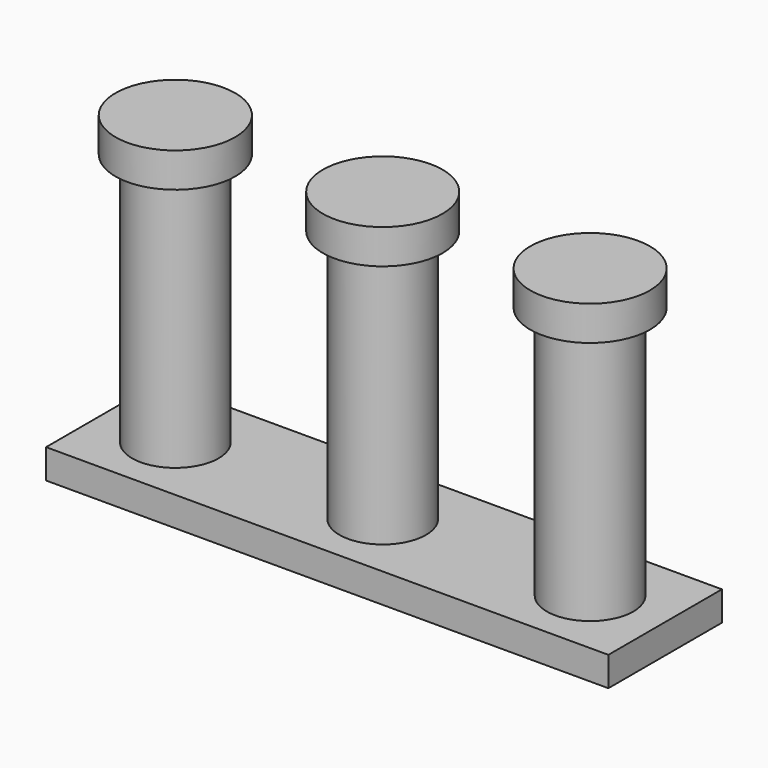
from build123d import *

# Parameters (mm, degrees)
F0_R      = 12.7
F1_DEPTH  = 76.2
F3_R      = 17.5641
F4_DEPTH  = 10.16
F6_DEPTH  = 8.636
F7_R      = 12.7
F8_DEPTH  = 76.2
F9_R      = 17.5641
F10_DEPTH = 10.16


with BuildPart() as f1:
    # F0 (on Top) → F1 (new body)
    with BuildSketch(Plane.XY):
        Circle(F0_R)
    extrude(amount=F1_DEPTH)

    # F3 (on offset) → F4 (join)
    with BuildSketch(Plane.XY.offset(74.422)):
        Circle(F3_R)
    extrude(amount=F4_DEPTH)

    # F5 (on Top) → F6 (join)
    with BuildSketch(Plane.XY):
        Polygon((-21.659788, 21.301638), (-21.659788, -20.368967), (60.890212, -20.368967), (60.890212, 0), (60.890212, 21.301638), align=None)
        Polygon((60.890212, 0), (60.890212, -20.368967), (143.440212, -20.368967), (143.440212, 21.301638), (60.890212, 21.301638), align=None)
    extrude(amount=-F6_DEPTH)

    # F7 (on face) → F8 (join)
    with BuildSketch(Plane.XY):
        with Locations((60.890212, 0)):
            Circle(F7_R)
        with Locations((121.774012, 0)):
            Circle(F7_R)
    extrude(amount=F8_DEPTH)

    # F9 (on offset) → F10 (join)
    with BuildSketch(Plane.XY.offset(74.422)):
        with Locations((60.890212, 0)):
            Circle(F9_R)
        with Locations((121.774012, 0)):
            Circle(F9_R)
    extrude(amount=F10_DEPTH)


solid = f1.part
